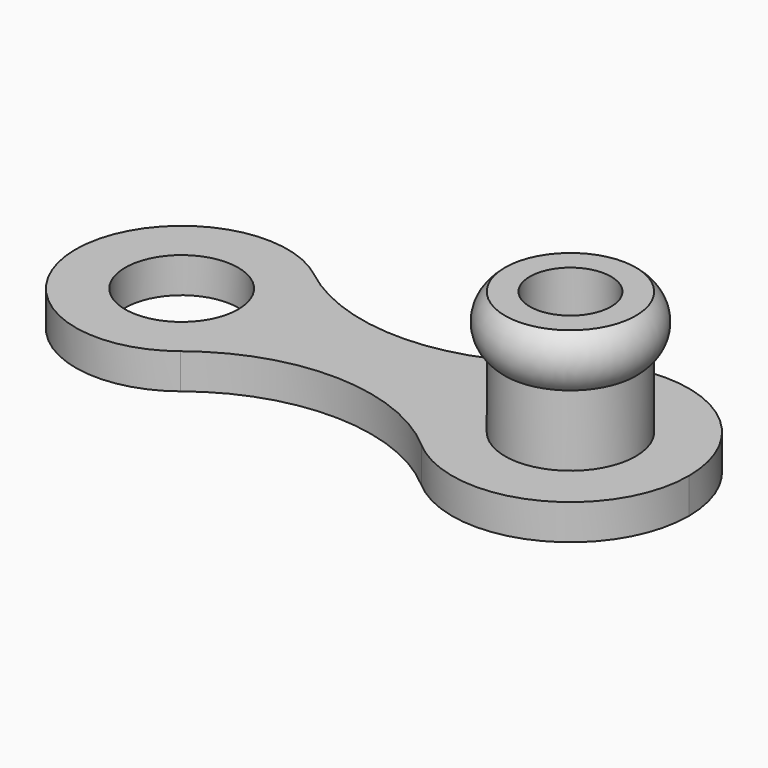
from build123d import *

# Parameters (mm, degrees)
F0_R     = 1.85
F3_DEPTH = 2
F4_R     = 1.85
F4_R_2   = 1.6
F5_DEPTH = 1
F6_R     = 1.15
F7_DEPTH = 2


with BuildPart() as f2:
    # F1 (on Front) → F2 (revolve)
    with BuildSketch(Plane.XZ):
        with BuildLine():
            Line((0, 0), (0, 1.5))
            Line((0, 1.5), (-1.85, 1.5))
            ThreePointArc((-1.85, 1.5), (-2.2059803133, 0.75), (-1.85, 0))
            Line((-1.85, 0), (0, 0))
        make_face()
    revolve(axis=Axis((0, 0, 0.75), (0, 0, -1)))

    # F0 (on Top) → F3 (join)
    with BuildSketch(Plane.XY):
        Circle(F0_R)
    extrude(amount=-F3_DEPTH)

    # F4 (on face) → F5 (join)
    with BuildSketch(Plane(origin=(0, 0, -2), x_dir=(1, 0, 0), z_dir=(0, 0, -1))):
        with BuildLine():
            ThreePointArc((-2.2001077956, -2.526267145), (1.3878290393, -3.0490048471), (3.35, 0))
            ThreePointArc((3.35, 0), (1.3878290393, 3.0490048471), (-2.2001077956, 2.526267145))
            ThreePointArc((-2.2001077956, 2.526267145), (-3.35, 0), (-2.2001077956, -2.526267145))
        make_face()
        Circle(F4_R, mode=Mode.SUBTRACT)
        with BuildLine():
            ThreePointArc((-8, 0), (-8.3008157574, 1.3093526739), (-9.142936283, 2.3561227369))
            ThreePointArc((-9.142936283, 2.3561227369), (-14, 0), (-9.142936283, -2.3561227369))
            ThreePointArc((-9.142936283, -2.3561227369), (-8.3008157574, -1.3093526739), (-8, 0))
        make_face()
        with Locations((-11, 0)):
            Circle(F4_R_2, mode=Mode.SUBTRACT)
        with BuildLine():
            ThreePointArc((-2.2001077956, -2.526267145), (-3.35, 0), (-2.2001077956, 2.526267145))
            ThreePointArc((-2.2001077956, 2.526267145), (-5.640853454, 1.1897478328), (-9.142936283, 2.3561227369))
            ThreePointArc((-9.142936283, 2.3561227369), (-8.3008157574, 1.3093526739), (-8, 0))
            ThreePointArc((-8, 0), (-8.3008157574, -1.3093526739), (-9.142936283, -2.3561227369))
            ThreePointArc((-9.142936283, -2.3561227369), (-5.640853454, -1.1897478328), (-2.2001077956, -2.526267145))
        make_face()
        Circle(F4_R)
    extrude(amount=F5_DEPTH)

    # F6 (on face) → F7 (cut)
    with BuildSketch(Plane.XY.offset(1.5)):
        Circle(F6_R)
    extrude(amount=-F7_DEPTH, mode=Mode.SUBTRACT)


solid = f2.part
